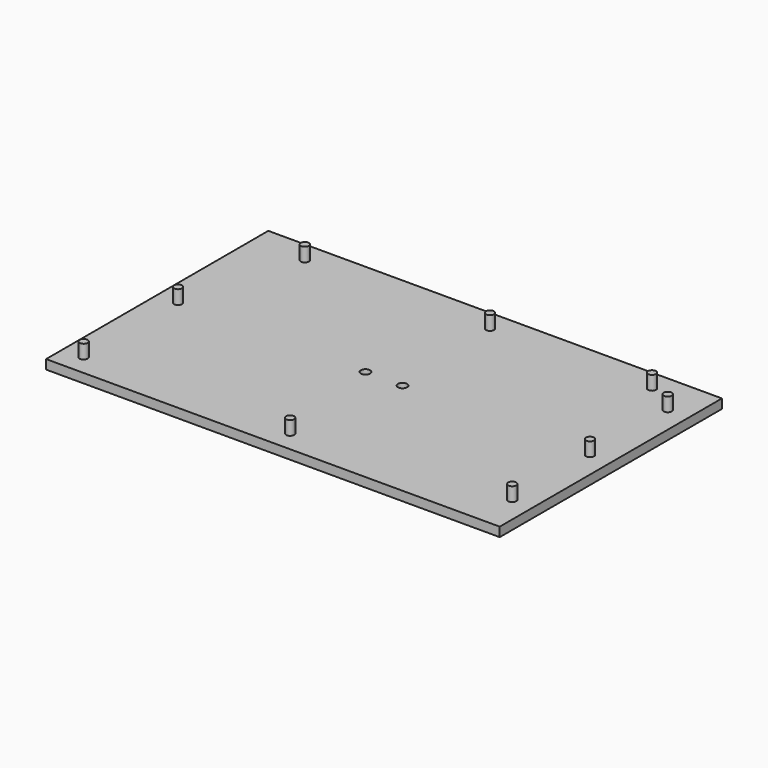
from build123d import *

# Parameters (mm, degrees)
F0_W     = 196
F0_H     = 120
F0_R     = 2
F1_DEPTH = 4
F2_R     = 1.75
F3_DEPTH = 6


with BuildPart() as f1:
    # F0 (on Top) → F1 (new body)
    with BuildSketch(Plane.XY):
        with Locations((22.739595, 0)):
            Rectangle(F0_W, F0_H)
        with Locations((14.739595, 0)):
            Circle(F0_R, mode=Mode.SUBTRACT)
        with Locations((30.739595, 0)):
            Circle(F0_R, mode=Mode.SUBTRACT)
    extrude(amount=F1_DEPTH)

    # F2 (on face) → F3 (join)
    with BuildSketch(Plane.XY.offset(4)):
        with Locations((-66.260405, -51)):
            Circle(F2_R)
        with Locations((22.989595, -51)):
            Circle(F2_R)
        with Locations((111.739595, -42)):
            Circle(F2_R)
        with Locations((111.739595, 42)):
            Circle(F2_R)
        with Locations((-52.260405, 51)):
            Circle(F2_R)
        with Locations((-66.260405, 0)):
            Circle(F2_R)
        with Locations((97.739595, 51)):
            Circle(F2_R)
        with Locations((27.739595, 51)):
            Circle(F2_R)
        with Locations((111.739595, 0)):
            Circle(F2_R)
    extrude(amount=F3_DEPTH)


solid = f1.part
